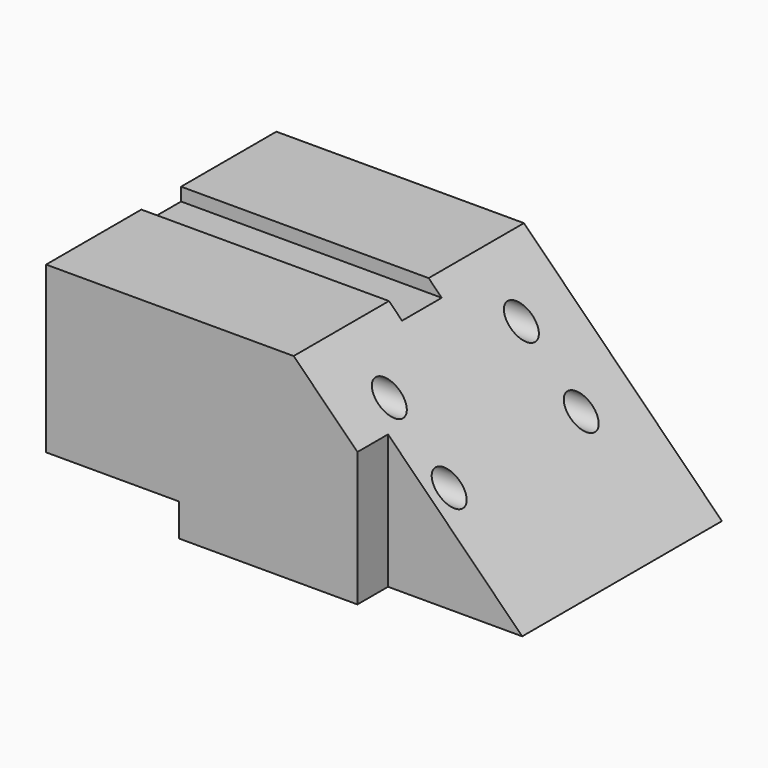
from build123d import *

# Parameters (mm, degrees)
F1_DEPTH      = 38.1
F1_DEPTH_BACK = 38.1
F2_W          = 13.1363468245
F2_H          = 6.9251358509
F2_R          = 3.615061925
F3_DEPTH      = 117.9425173829
F4_W          = 35.5246793479
F4_H          = 10.1240347087
F5_DEPTH      = 52.4035820196


with BuildPart() as f1:
    # F0 (on Front) → F1 (new body, two sides)
    with BuildSketch(Plane.XZ) as f1_sk:
        Polygon((-65.5389353633, 52.4025820196), (-65.5389353633, 8.6385719478), (-30.4134916514, 8.6385719478), (-30.4134916514, 0), (52.4025820196, 0), (0, 52.4025820196), align=None)
    extrude(amount=F1_DEPTH)
    extrude(f1_sk.sketch, amount=-F1_DEPTH_BACK)

    # F2 (on face) → F3 (cut, through all)
    with BuildSketch(Plane(origin=(-65.5389353633, 0, 0), x_dir=(0, -1, 0), z_dir=(-1, 0, 0))):
        with Locations((0, 52.4025820196)):
            Rectangle(F2_W, F2_H)
        with Locations((-21.8463074416, 40.0872603059)):
            Circle(F2_R)
        with Locations((-21.8463074416, 24.2379792035)):
            Circle(F2_R)
        with Locations((21.8463074416, 24.2379792035)):
            Circle(F2_R)
        with Locations((21.8463074416, 40.0872603059)):
            Circle(F2_R)
    extrude(amount=-F3_DEPTH, mode=Mode.SUBTRACT)

    # F4 (on face) → F5 (cut, through all)
    with BuildSketch(Plane(origin=(0, 0, 0), x_dir=(1, 0, 0), z_dir=(0, 0, -1))):
        with Locations((34.6402423456, 33.0379826456)):
            Rectangle(F4_W, F4_H)
    extrude(amount=-F5_DEPTH, mode=Mode.SUBTRACT)


solid = f1.part
